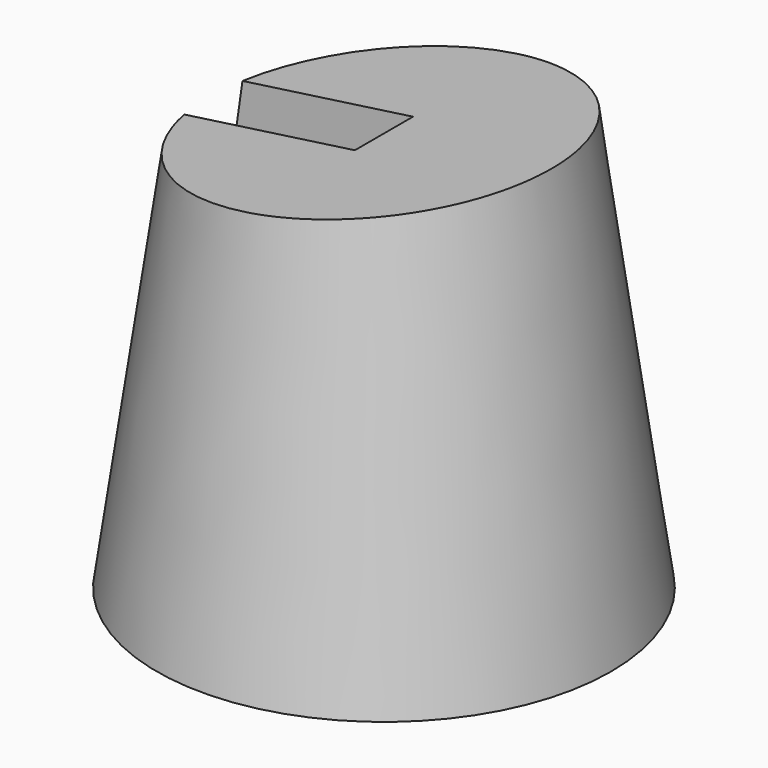
from build123d import *

# Parameters (mm, degrees)
F0_R     = 125
F1_DEPTH = 250
F1_TAPER = 8
F2_W     = 40
F2_H     = 250
F3_DEPTH = 150
F7_R     = 150
F8_DEPTH = 46.8815590493


with BuildPart() as f1:
    # F0 (on Top) → F1 (new body)
    with BuildSketch(Plane.XY):
        Circle(F0_R)
    extrude(amount=F1_DEPTH, taper=F1_TAPER)

    # F2 (on Right) → F3 (cut)
    with BuildSketch(Plane.YZ):
        with Locations((0, 125)):
            Rectangle(F2_W, F2_H)
    extrude(amount=-F3_DEPTH, mode=Mode.SUBTRACT)

    # F7 (on line) → F8 (cut, through all)
    with BuildSketch(Plane(origin=(-30.3201091399, 0, 215.7387865532), x_dir=(0.9902680687, 0, 0.139173101), z_dir=(0.139173101, 0, -0.9902680687))):
        Circle(F7_R)
    extrude(amount=-F8_DEPTH, mode=Mode.SUBTRACT)


solid = f1.part
